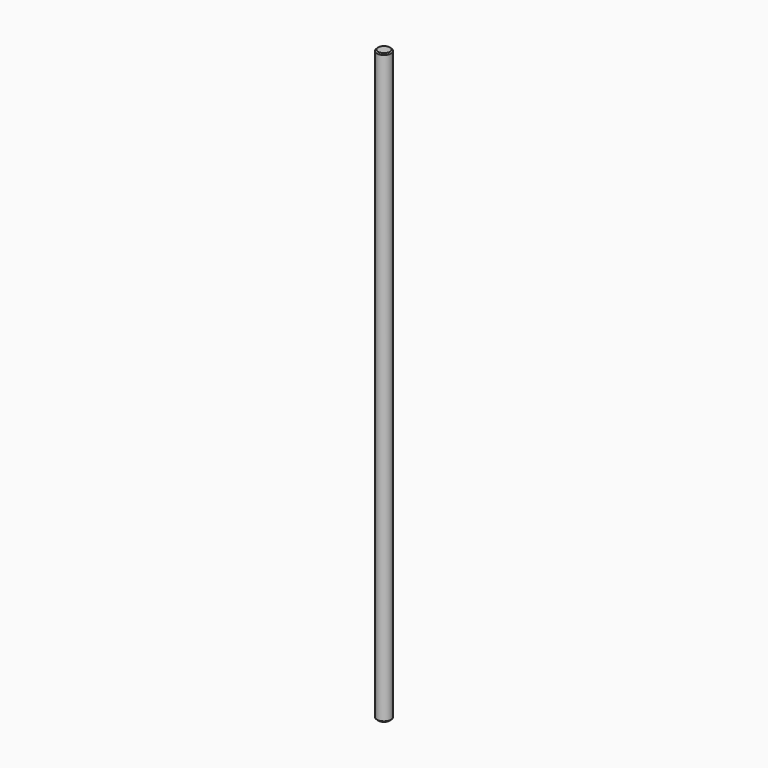
from build123d import *

# Parameters (mm, degrees)
SKETCH_R     = 6
PAD_DEPTH    = 500
CHAMFER_SIZE = 1


with BuildPart() as part:
    # Sketch → Pad (new body)
    with BuildSketch(Plane.XY):
        Circle(SKETCH_R)
    extrude(amount=PAD_DEPTH)

    # Chamfer
    chamfer_edges = [part.edges().sort_by_distance(p)[0] for p in [
        (-6, 0, 0),
        (-6, 0, 500),
    ]]
    chamfer(chamfer_edges, length=CHAMFER_SIZE)


solid = part.part
